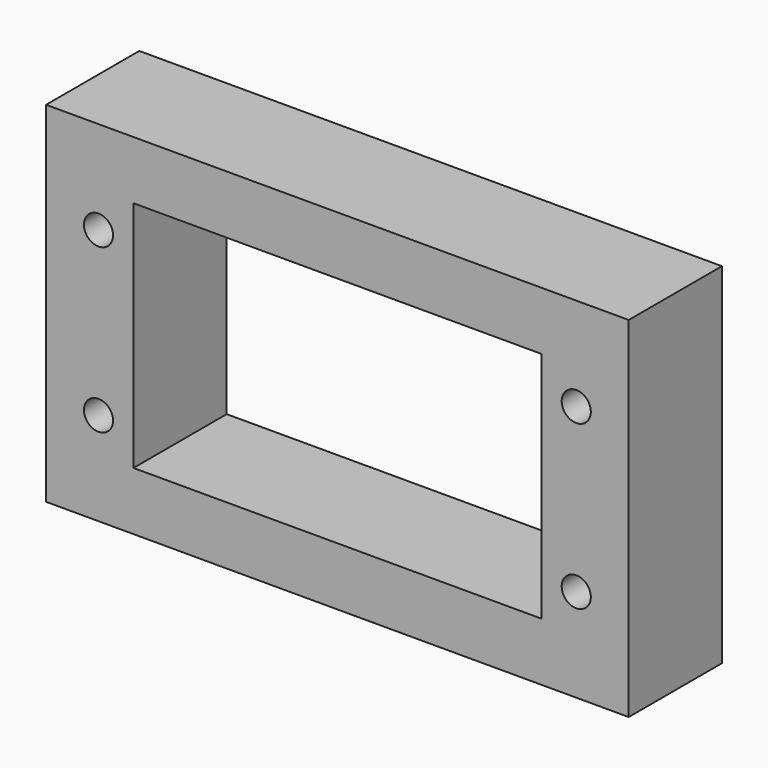
from build123d import *

# Parameters (mm, degrees)
F0_W     = 63.5
F0_H     = 38.1
F0_R     = 1.5875
F0_W_2   = 44.45
F0_H_2   = 25.4
F1_DEPTH = 12.7


with BuildPart() as f1:
    # F0 (on Front) → F1 (new body)
    with BuildSketch(Plane.XZ):
        with Locations((31.75, 19.05)):
            Rectangle(F0_W, F0_H)
        with Locations((5.715, 10.16)):
            Circle(F0_R, mode=Mode.SUBTRACT)
        with Locations((57.785, 10.16)):
            Circle(F0_R, mode=Mode.SUBTRACT)
        with Locations((5.715, 27.94)):
            Circle(F0_R, mode=Mode.SUBTRACT)
        with Locations((31.75, 19.05)):
            Rectangle(F0_W_2, F0_H_2, mode=Mode.SUBTRACT)
        with Locations((57.785, 27.94)):
            Circle(F0_R, mode=Mode.SUBTRACT)
    extrude(amount=F1_DEPTH)


solid = f1.part
